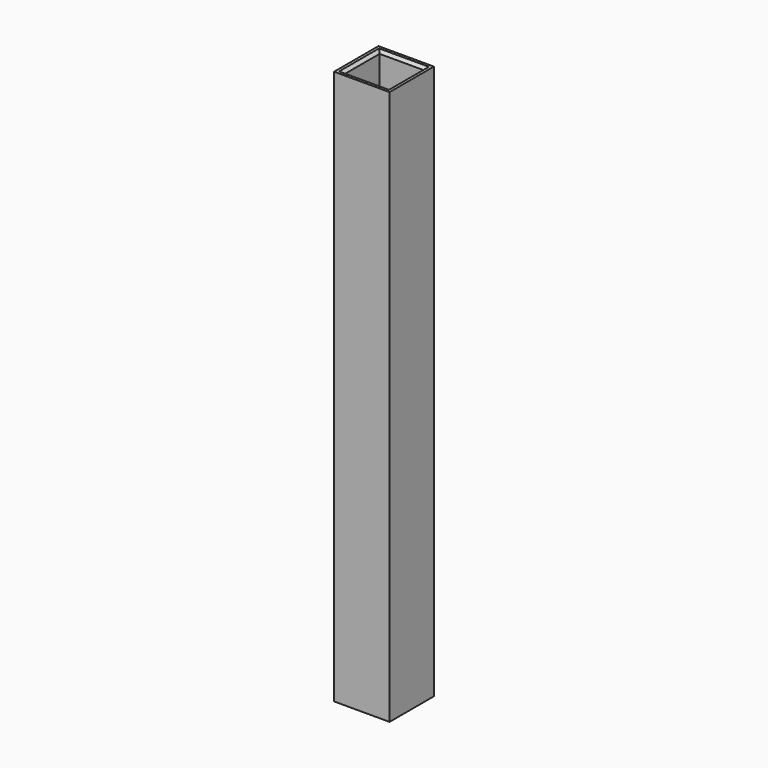
from build123d import *

# Parameters (mm, degrees)
F0_W     = 20
F0_H     = 20
F0_W_2   = 16
F0_H_2   = 16
F1_DEPTH = 100
F2_SIZE  = 1


with BuildPart() as f1:
    # F0 (on Top) → F1 (new body, symmetric)
    with BuildSketch(Plane.XY):
        Rectangle(F0_W, F0_H)
        Rectangle(F0_W_2, F0_H_2, mode=Mode.SUBTRACT)
    extrude(amount=F1_DEPTH, both=True)

    # F2
    f2_edges = [f1.edges().sort_by_distance(p)[0] for p in [
        (0, 8, 100),
        (-8, 0, 100),
        (8, 0, 100),
        (0, -8, 100),
        (0, 8, -100),
        (8, 0, -100),
        (0, -8, -100),
        (-8, 0, -100),
    ]]
    chamfer(f2_edges, length=F2_SIZE)


solid = f1.part
